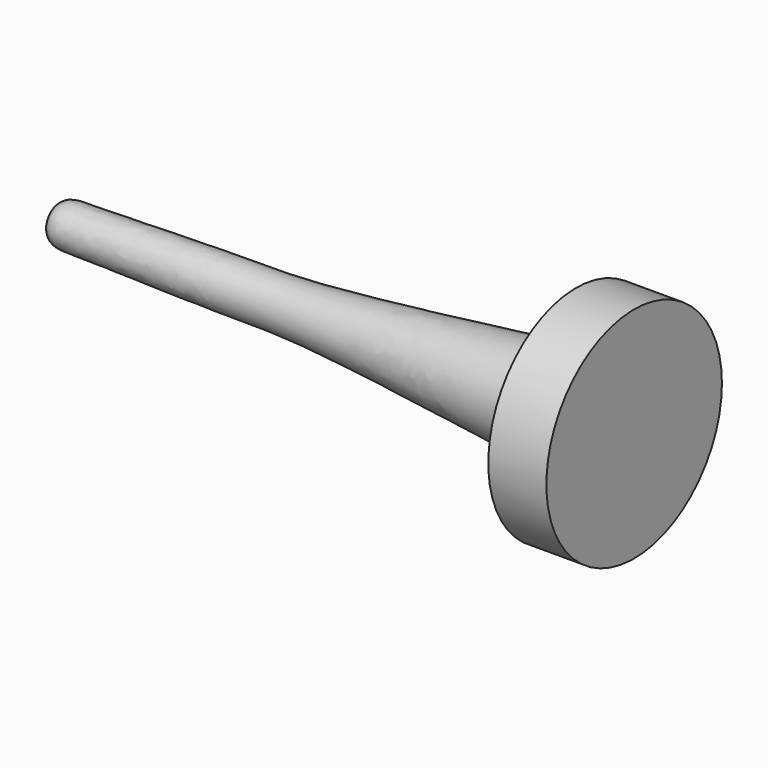
from build123d import *


with BuildPart() as f1:
    # F0 (on Top) → F1 (revolve)
    with BuildSketch(Plane.XY):
        with BuildLine():
            add(Edge.make_bspline(
                [(0, 0), (0, 6.5), (8.7959790951, 6.3308368551), (57.6924612882, 7.721354559), (79.6061876538, 6.6453971107), (157.8518821784, 15.8731143857), (161.5, 16.3)],
                knots=[0, 0, 0, 0, 0.131556771, 0.4064547435, 0.6450957524, 1, 1, 1, 1], degree=3))
            Line((0, 0), (179.5, 0))
            Line((179.5, 0), (179.5, 34))
            Line((179.5, 34), (161.5, 34))
            Line((161.5, 34), (161.5, 16.3))
        make_face()
    revolve(axis=Axis((89.75, 0, 0), (1, 0, 0)))


solid = f1.part
